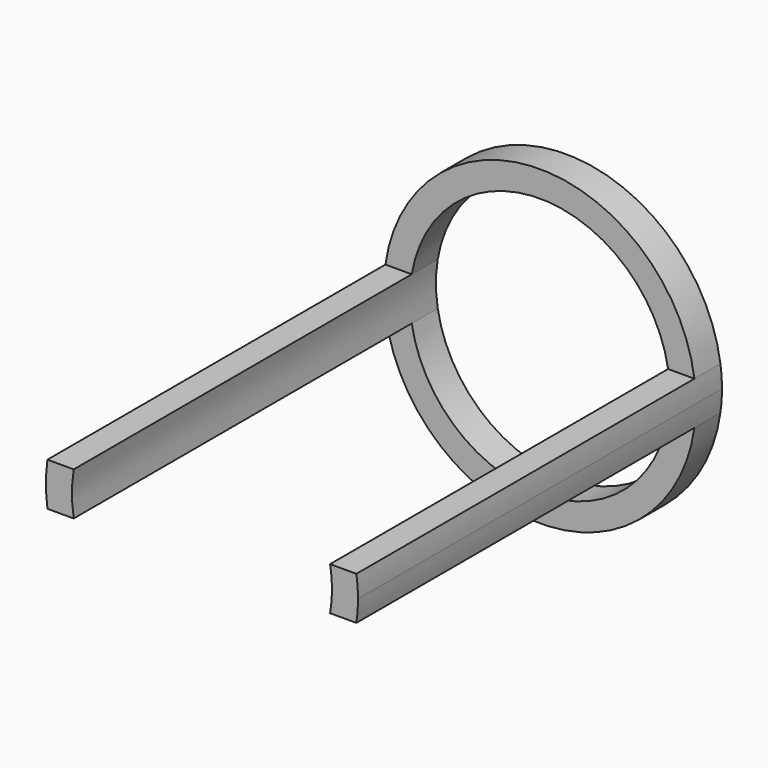
from build123d import *

# Parameters (mm, degrees)
F1_DEPTH = 177.8
F2_DEPTH = 12.7


with BuildPart() as f1:
    # F0 (on Front) → F1 (new body)
    with BuildSketch(Plane.XZ):
        with BuildLine():
            Line((-50.092271, 8.450114), (-60.371493, 8.450114))
            ThreePointArc((-60.371493, 8.450114), (-60.96, 0), (-60.371493, -8.450114))
            Line((-60.371493, -8.450114), (-50.092271, -8.450114))
            ThreePointArc((-50.092271, -8.450114), (-50.8, 0), (-50.092271, 8.450114))
        make_face()
        with BuildLine():
            ThreePointArc((60.371493, -8.450114), (60.812695, -4.235291), (60.96, 0))
            ThreePointArc((60.96, 0), (60.812695, 4.235291), (60.371493, 8.450114))
            Line((60.371493, 8.450114), (50.092271, 8.450114))
            ThreePointArc((50.092271, 8.450114), (50.622758, 4.23985), (50.8, 0))
            ThreePointArc((50.8, 0), (50.622758, -4.23985), (50.092271, -8.450114))
            Line((50.092271, -8.450114), (60.371493, -8.450114))
        make_face()
    extrude(amount=F1_DEPTH)

    # F0 (on Front) → F2 (join)
    with BuildSketch(Plane.XZ):
        with BuildLine():
            Line((50.092271, 8.450114), (60.371493, 8.450114))
            ThreePointArc((60.371493, 8.450114), (0, 60.96), (-60.371493, 8.450114))
            Line((-60.371493, 8.450114), (-50.092271, 8.450114))
            ThreePointArc((-50.092271, 8.450114), (0, 50.8), (50.092271, 8.450114))
        make_face()
        with BuildLine():
            ThreePointArc((-60.371493, -8.450114), (0, -60.96), (60.371493, -8.450114))
            Line((60.371493, -8.450114), (50.092271, -8.450114))
            ThreePointArc((50.092271, -8.450114), (0, -50.8), (-50.092271, -8.450114))
            Line((-50.092271, -8.450114), (-60.371493, -8.450114))
        make_face()
    extrude(amount=F2_DEPTH)


solid = f1.part
